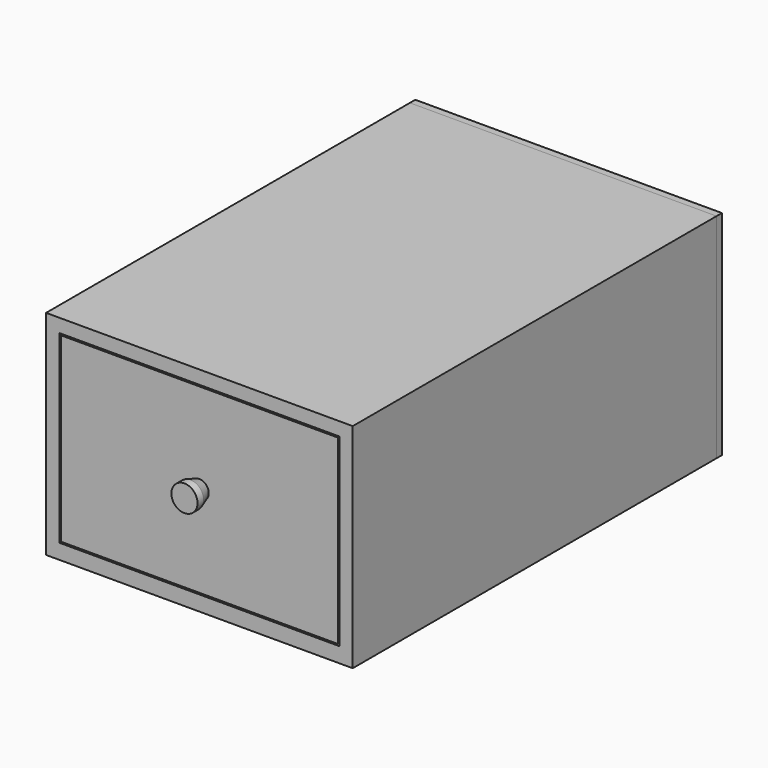
from build123d import *

# Parameters (mm, degrees)
F0_W      = 410
F0_H      = 285
F0_W_2    = 374
F0_H_2    = 246.838547
F1_DEPTH  = 608
F2_W      = 410
F2_H      = 285
F3_DEPTH  = 9
F4_W      = 370
F4_H      = 242.838547
F5_DEPTH  = 18
F6_W      = 345
F6_H      = 189.362255
F7_DEPTH  = 550
F8_T      = -18
F9_R      = 17.5
F10_DEPTH = 25
F11_SIZE2 = 5
F11_SIZE  = 15


with BuildPart() as f1:
    # F0 (on Front) → F1 (new body)
    with BuildSketch(Plane.XZ):
        with Locations((-121.848952, 70.956648)):
            Rectangle(F0_W, F0_H)
        with Locations((-121.848952, 72.037374)):
            Rectangle(F0_W_2, F0_H_2, mode=Mode.SUBTRACT)
    extrude(amount=F1_DEPTH)


with BuildPart() as f3:
    # F2 (on face) → F3 (new body)
    with BuildSketch(Plane(origin=(0, 0, 0), x_dir=(-1, 0, 0), z_dir=(0, 1, 0))):
        with Locations((121.848952, 70.956648)):
            Rectangle(F2_W, F2_H)
    extrude(amount=F3_DEPTH)


with BuildPart() as f5:
    # F4 (on face) → F5 (new body)
    with BuildSketch(Plane.XZ.offset(608)):
        with Locations((-121.848952, 72.037374)):
            Rectangle(F4_W, F4_H)
    extrude(amount=-F5_DEPTH)


with BuildPart() as f7:
    # F6 (on face) → F7 (new body)
    with BuildSketch(Plane(origin=(0, -590, 0), x_dir=(-1, 0, 0), z_dir=(0, 1, 0))):
        with Locations((121.848952, 65.299228)):
            Rectangle(F6_W, F6_H)
    extrude(amount=F7_DEPTH)

    # F8
    f8_openings = [f7.faces().sort_by_distance(p)[0] for p in [
        (-121.848952, -315, 159.980356),
    ]]
    offset(amount=F8_T, openings=f8_openings)


with BuildPart() as f10:
    # F9 (on face) → F10 (new body)
    with BuildSketch(Plane.XZ.offset(608)):
        with Locations((-121.848952, 72.037374)):
            Circle(F9_R)
    extrude(amount=F10_DEPTH)

    # F11
    f11_edges = [f10.edges().sort_by_distance(p)[0] for p in [
        (-139.348952, -608, 72.037374),
    ]]
    chamfer(f11_edges, length=F11_SIZE, length2=F11_SIZE2)


solid = Compound([f1.part, f3.part, f5.part, f7.part, f10.part])
